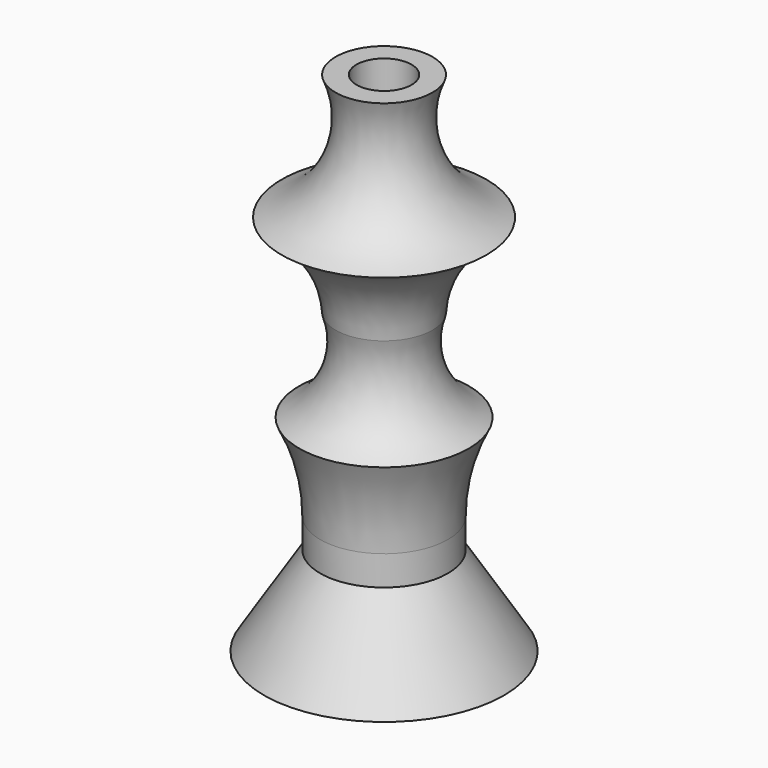
from build123d import *


with BuildPart() as f1:
    # F0 (on Front) → F1 (revolve)
    with BuildSketch(Plane.XZ):
        with BuildLine():
            Line((7.139319, 41.979186), (0, 44.499483))
            Line((0, 44.499483), (0, 37.981167))
            Line((0, 37.981167), (0, -63.968271))
            Line((0, -63.968271), (31.127425, -63.968271))
            Line((31.127425, -63.968271), (16.56322, -40.836889))
            Line((16.56322, -40.836889), (16.56322, -33.126429))
            ThreePointArc((16.56322, -33.126429), (17.938758, -21.524654), (21.9891, -10.566186))
            ThreePointArc((21.9891, -10.566186), (12.865454, -0.305301), (12.565202, 13.421918))
            ThreePointArc((12.565202, 13.421918), (16.662921, 26.14265), (26.558261, 35.125442))
            ThreePointArc((26.558261, 35.125442), (12.536804, 48.383601), (12.565202, 67.680731))
            Line((12.565202, 67.680731), (7.139319, 67.680731))
            Line((7.139319, 67.680731), (7.139319, 41.979186))
        make_face()
    revolve(axis=Axis((0, 0, -2.570149), (0, 0, -1)))


solid = f1.part
